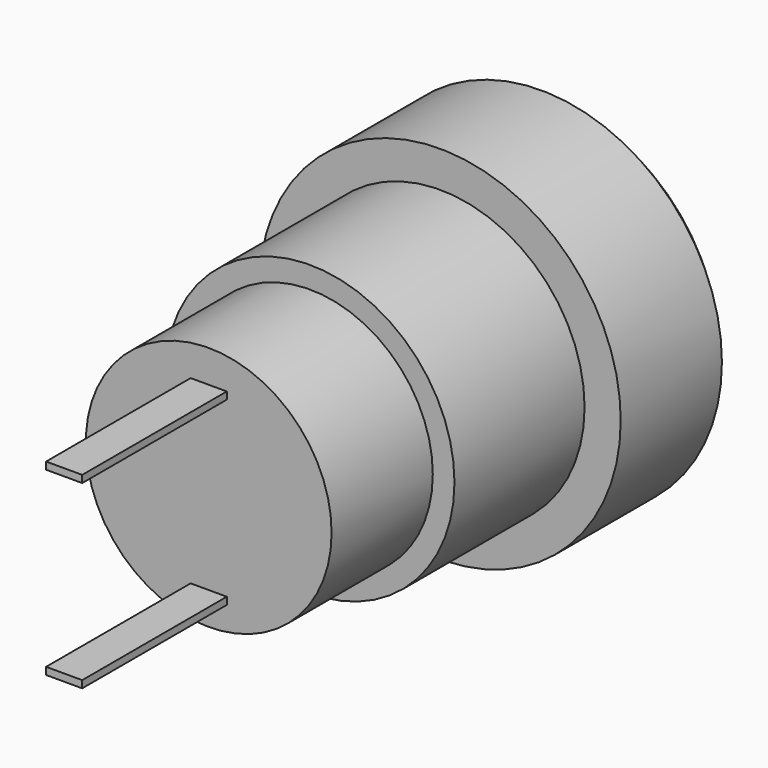
from build123d import *

# Parameters (mm, degrees)
CYLINDER003003_R     = 2.85
CYLINDER003003_DEPTH = 10
BOX001001004_W       = 1
BOX001001004_H       = 0.2
BOX001001004_DEPTH   = 5.1
CYLINDER002007_R     = 3.4
CYLINDER002007_DEPTH = 8.5
BOX001001005_W       = 1
BOX001001005_H       = 0.2
BOX001001005_DEPTH   = 5.1
CYLINDER004009_R     = 5
CYLINDER004009_DEPTH = 4
CHAMFER008_SIZE      = 0.5
CYLINDER001006_R     = 4
CYLINDER001006_DEPTH = 4.6
CUT003009_ROLL_ANGLE = -90


with BuildPart() as hole001:
    # Cylinder003003 → Cylinder003003 (new body)
    with BuildSketch(Plane.XY):
        Circle(CYLINDER003003_R)
    extrude(amount=CYLINDER003003_DEPTH)


with BuildPart() as contact003:
    # Box001001004 → Box001001004 (new body)
    with BuildSketch(Plane(origin=(-0.5, 2.5, -13), x_dir=(1, 0, 0), z_dir=(0, 0, 1))):
        with Locations((0.5, 0.1)):
            Rectangle(BOX001001004_W, BOX001001004_H)
    extrude(amount=BOX001001004_DEPTH)


with BuildPart() as cylinder002007:
    # Cylinder002007 → Cylinder002007 (new body)
    with BuildSketch(Plane.XY.offset(-8)):
        Circle(CYLINDER002007_R)
    extrude(amount=CYLINDER002007_DEPTH)


with BuildPart() as contact004:
    # Box001001005 → Box001001005 (new body)
    with BuildSketch(Plane(origin=(-0.5, -2.5, -13), x_dir=(1, 0, 0), z_dir=(0, 0, 1))):
        with Locations((0.5, 0.1)):
            Rectangle(BOX001001005_W, BOX001001005_H)
    extrude(amount=BOX001001005_DEPTH)


with BuildPart() as chamfer008:
    # Cylinder004009 → Cylinder004009 (new body)
    with BuildSketch(Plane.XY):
        Circle(CYLINDER004009_R)
    extrude(amount=CYLINDER004009_DEPTH)

    # Chamfer008
    chamfer008_edges = [chamfer008.edges().sort_by_distance(p)[0] for p in [
        (-5, 0, 4),
    ]]
    chamfer(chamfer008_edges, length=CHAMFER008_SIZE)


with BuildPart() as powerconnector:
    # Cylinder001006 → Cylinder001006 (new body)
    with BuildSketch(Plane.XY.offset(-4.5)):
        Circle(CYLINDER001006_R)
    extrude(amount=CYLINDER001006_DEPTH)

    # Fusion005: union contact003, Cylinder002007, contact004, Chamfer008
    add(contact003.part)
    add(cylinder002007.part)
    add(contact004.part)
    add(chamfer008.part)

    # Cut003009: cut hole001
    add(hole001.part, mode=Mode.SUBTRACT)


with BuildPart() as powerconnector_1:
    # Cut003009 roll: moved
    add(powerconnector.part.rotate(Axis((0, 0, 0), (1, 0, 0)), CUT003009_ROLL_ANGLE))


with BuildPart() as powerconnector_2:
    # Cut003009 placement: moved
    add(powerconnector_1.part.moved(Location((-0.7, 30, 39.2))))


solid = powerconnector_2.part
